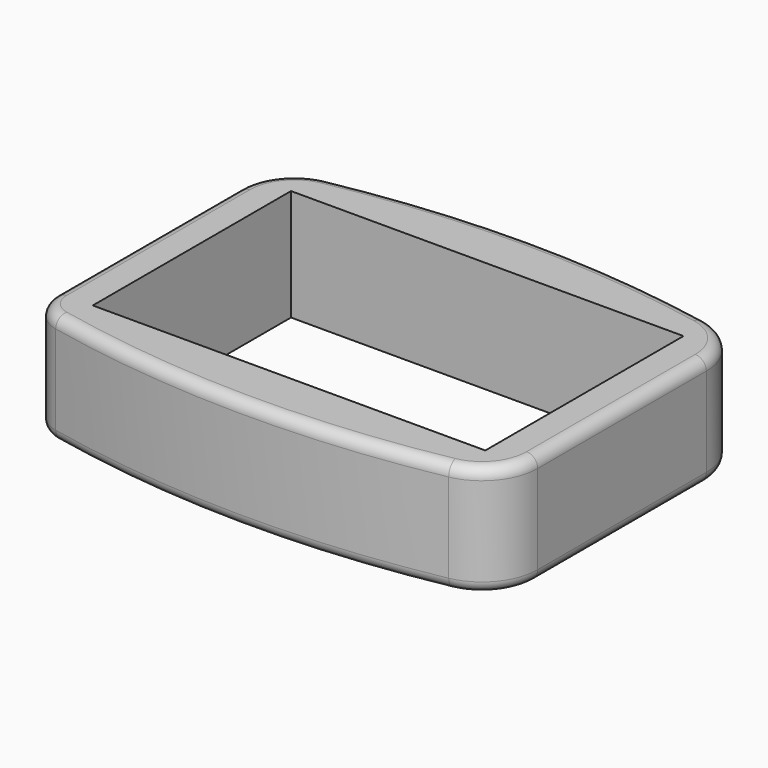
from build123d import *

# Parameters (mm, degrees)
F0_W     = 35.25
F0_H     = 22.25
F1_DEPTH = 10
F2_R     = 1


with BuildPart() as f1:
    # F0 (on Top) → F1 (new body)
    with BuildSketch(Plane.XY):
        with BuildLine():
            Line((21, -9.464824), (21, 9.464824))
            ThreePointArc((21, 9.464824), (19.853951, 12.650269), (16.941176, 14.375444))
            ThreePointArc((16.941176, 14.375444), (0, 15.984287), (-16.941176, 14.375444))
            ThreePointArc((-16.941176, 14.375444), (-19.853951, 12.650269), (-21, 9.464824))
            Line((-21, 9.464824), (-21, -11.101853))
            ThreePointArc((-21, -11.101853), (-20.330458, -12.991023), (-18.62069, -14.036941))
            ThreePointArc((-18.62069, -14.036941), (-0.856643, -15.98021), (16.941176, -14.375444))
            ThreePointArc((16.941176, -14.375444), (19.853951, -12.650269), (21, -9.464824))
        make_face()
        Rectangle(F0_W, F0_H, mode=Mode.SUBTRACT)
    extrude(amount=F1_DEPTH)

    # F2
    f2_edges = [f1.edges().sort_by_distance(p)[0] for p in [
        (19.853951, 12.650269, 10),
        (19.853951, 12.650269, 0),
    ]]
    fillet(f2_edges, radius=F2_R)


solid = f1.part
